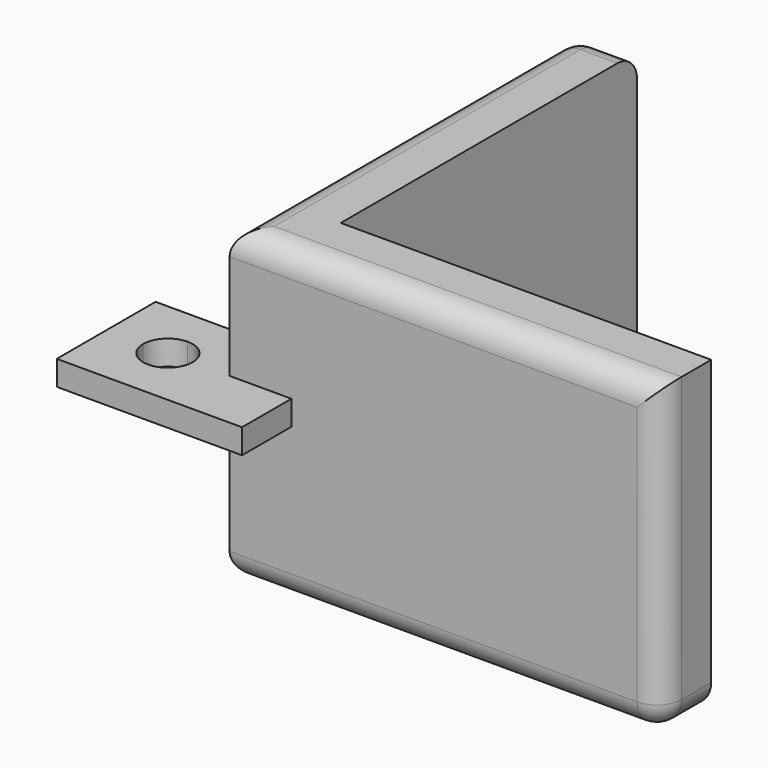
from build123d import *

# Parameters (mm, degrees)
F1_DEPTH = 25
F2_W     = 5
F2_H     = 2
F3_DEPTH = 5
F5_DEPTH = 10
F7_DEPTH = 25
F8_R     = 2


with BuildPart() as f1:
    # F0 (on Top) → F1 (new body)
    with BuildSketch(Plane.XY):
        Polygon((0, -5), (0, 0), (-30, 0), (-30, 30), (-35, 30), (-35, -5), align=None)
    extrude(amount=F1_DEPTH)

    # F2 (on face) → F3 (join)
    with BuildSketch(Plane.XZ.offset(5)):
        with Locations((-32.5, 13.5)):
            Rectangle(F2_W, F2_H)
    extrude(amount=F3_DEPTH)

    # F4 (on face) → F5 (join)
    with BuildSketch(Plane(origin=(-35, 0, 0), x_dir=(0, -1, 0), z_dir=(-1, 0, 0))):
        Polygon((10, 14.5), (5, 14.5), (0, 14.5), (0, 12.5), (5, 12.5), (10, 12.5), align=None)
    extrude(amount=F5_DEPTH)

    # F6 (on face) → F7 (cut)
    with BuildSketch(Plane.XY.offset(14.5)):
        with BuildLine():
            Line((-40, -7), (-40, -5))
            Line((-40, -5), (-41.4142135624, -6.4142135624))
            ThreePointArc((-41.4142135624, -6.4142135624), (-40.7653668647, -6.847759065), (-40, -7))
        make_face()
        with BuildLine():
            ThreePointArc((-40, -7), (-38.5857864376, -6.4142135624), (-38, -5))
            Line((-38, -5), (-40, -5))
            Line((-40, -5), (-40, -7))
        make_face()
        with BuildLine():
            Line((-40, -5), (-38, -5))
            ThreePointArc((-38, -5), (-38.5857864376, -3.5857864376), (-40, -3))
            Line((-40, -3), (-40, -5))
        make_face()
        with BuildLine():
            Line((-42, -5), (-40, -5))
            Line((-40, -5), (-40, -3))
            ThreePointArc((-40, -3), (-41.4142135624, -3.5857864376), (-42, -5))
        make_face()
        with BuildLine():
            Line((-41.4142135624, -6.4142135624), (-40, -5))
            Line((-40, -5), (-42, -5))
            ThreePointArc((-42, -5), (-41.847759065, -5.7653668647), (-41.4142135624, -6.4142135624))
        make_face()
    extrude(amount=-F7_DEPTH, mode=Mode.SUBTRACT)

    # F8
    f8_edges = [f1.edges().sort_by_distance(p)[0] for p in [
        (-35, 12.5, 0),
        (-17.5, -5, 0),
        (0, -2.5, 0),
        (-32.5, 30, 0),
        (-35, 30, 12.5),
        (-35, 12.5, 25),
        (-32.5, 30, 25),
        (-17.5, -5, 25),
        (0, -5, 12.5),
    ]]
    fillet(f8_edges, radius=F8_R)


solid = f1.part
